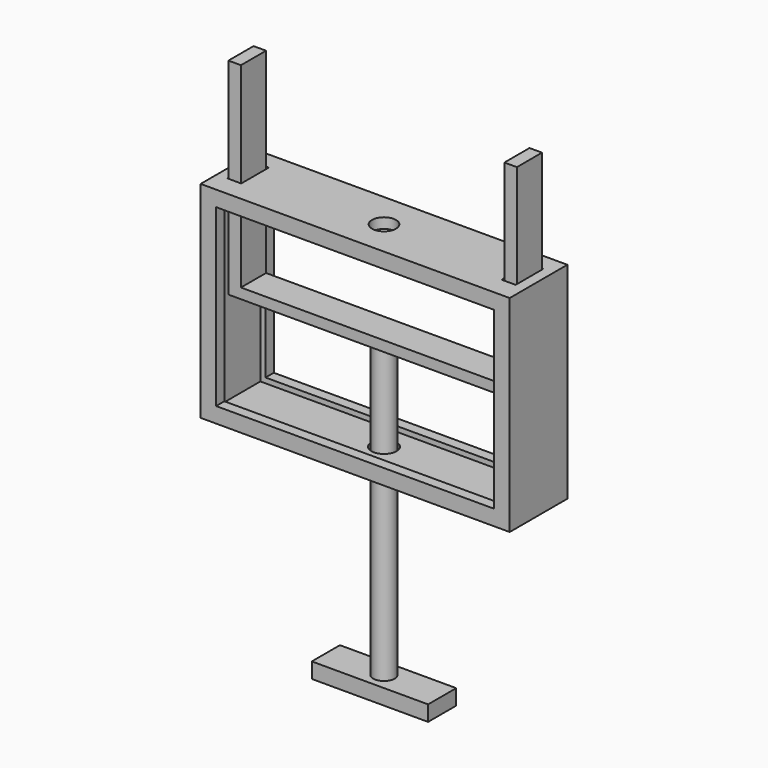
from build123d import *

# Parameters (mm, degrees)
F0_W      = 60.0096508861
F0_H      = 14
F0_W_2    = 56.0096508861
F0_H_2    = 10
F0_W_3    = 54.0096508861
F0_H_3    = 8
F0_W_4    = 17.1252988726
F0_H_4    = 5
F1_DEPTH  = 2
F2_DEPTH  = 40
F3_W      = 54.0096508861
F3_H      = 34
F4_DEPTH  = 25
F5_W      = 22.0086090267
F5_H      = 9.8841609433
F5_W_2    = 17.1252988726
F5_H_2    = 5
F5_R      = 2.4237379835
F6_DEPTH  = 2
F7_W      = 60.0096508861
F7_H      = 14
F7_R      = 2.3237379835
F8_DEPTH  = 2
F7_W_2    = 2.4276788831
F7_H_2    = 6.0991658829
F9_DEPTH  = 20
F10_W     = 6.0991658829
F10_H     = 2
F11_DEPTH = 51.1542931199
F12_R     = 2.069
F13_DEPTH = 60
F14_W     = 22.5858446211
F14_H     = 6.8282815628
F14_R     = 2.069
F15_DEPTH = 3


with BuildPart() as f1:
    # F0 (on Top) → F1 (new body)
    with BuildSketch(Plane.XY):
        Rectangle(F0_W, F0_H)
        Rectangle(F0_W_2, F0_H_2, mode=Mode.SUBTRACT)
        Rectangle(F0_W_2, F0_H_2)
        Rectangle(F0_W_3, F0_H_3, mode=Mode.SUBTRACT)
        Rectangle(F0_W_3, F0_H_3)
        Rectangle(F0_W_4, F0_H_4, mode=Mode.SUBTRACT)
    extrude(amount=F1_DEPTH)

    # F0 (on Top) → F2 (join)
    with BuildSketch(Plane.XY):
        Rectangle(F0_W, F0_H)
        Rectangle(F0_W_2, F0_H_2, mode=Mode.SUBTRACT)
    extrude(amount=F2_DEPTH)

    # F3 (on face) → F4 (cut)
    with BuildSketch(Plane.XZ.offset(7)):
        with Locations((0, 20)):
            Rectangle(F3_W, F3_H)
    extrude(amount=-F4_DEPTH, mode=Mode.SUBTRACT)

    # F5 (on face) → F6 (join)
    with BuildSketch(Plane.XY.offset(2)):
        Rectangle(F5_W, F5_H)
        Rectangle(F5_W_2, F5_H_2, mode=Mode.SUBTRACT)
        Rectangle(F5_W_2, F5_H_2)
        Circle(F5_R, mode=Mode.SUBTRACT)
    extrude(amount=-F6_DEPTH)

    # F7 (on face) → F8 (join)
    with BuildSketch(Plane.XY.offset(40)):
        Rectangle(F7_W, F7_H)
        Polygon((28.004825443, 3.644704397), (28.004825443, 3.344704397), (28.004825443, -2.7544614859), (28.004825443, -3.0544614859), (28.004825443, -5), (-28.004825443, -5), (-28.004825443, -3.0544614859), (-28.004825443, -2.7544614859), (-28.004825443, 3.344704397), (-28.004825443, 3.644704397), (-28.004825443, 5), (28.004825443, 5), align=None, mode=Mode.SUBTRACT)
        Polygon((25.27714656, 3.644704397), (28.004825443, 3.644704397), (28.004825443, 5), (-28.004825443, 5), (-28.004825443, 3.644704397), (-25.27714656, 3.644704397), (-25.27714656, -3.0544614859), (-28.004825443, -3.0544614859), (-28.004825443, -5), (28.004825443, -5), (28.004825443, -3.0544614859), (25.27714656, -3.0544614859), align=None)
        Circle(F7_R, mode=Mode.SUBTRACT)
    extrude(amount=-F8_DEPTH)


with BuildPart() as f9:
    # F7 (on face) → F9 (new body, symmetric)
    with BuildSketch(Plane.XY.offset(40)):
        with Locations((26.7909860015, 0.2951214556)):
            Rectangle(F7_W_2, F7_H_2)
    extrude(amount=F9_DEPTH, both=True)



with BuildPart() as f9b:
    # F7 (on face) → F9, piece 2 (new body, symmetric)
    with BuildSketch(Plane.XY.offset(40)):
        with Locations((-26.7909860015, 0.2951214556)):
            Rectangle(F7_W_2, F7_H_2)
    extrude(amount=F9_DEPTH, both=True)


with BuildPart() as f9_1:
    add(f9.part)

    add(f9b.part)  # F11 merges F9b
    # F10 (on face) → F11 (join, through all)
    with BuildSketch(Plane.YZ.offset(-25.57714656)):
        with Locations((0.2951214556, 21)):
            Rectangle(F10_W, F10_H)
    extrude(amount=F11_DEPTH)


with BuildPart() as f13:
    # F12 (on face) → F13 (new body)
    with BuildSketch(Plane(origin=(0, 0, 20), x_dir=(1, 0, 0), z_dir=(0, 0, -1))):
        Circle(F12_R)
    extrude(amount=F13_DEPTH)


with BuildPart() as f15:
    # F14 (on face) → F15 (new body)
    with BuildSketch(Plane(origin=(0, 0, -40), x_dir=(1, 0, 0), z_dir=(0, 0, -1))):
        Rectangle(F14_W, F14_H)
        Circle(F14_R, mode=Mode.SUBTRACT)
    extrude(amount=-F15_DEPTH)


solid = Compound([f1.part, f9_1.part, f13.part, f15.part])
